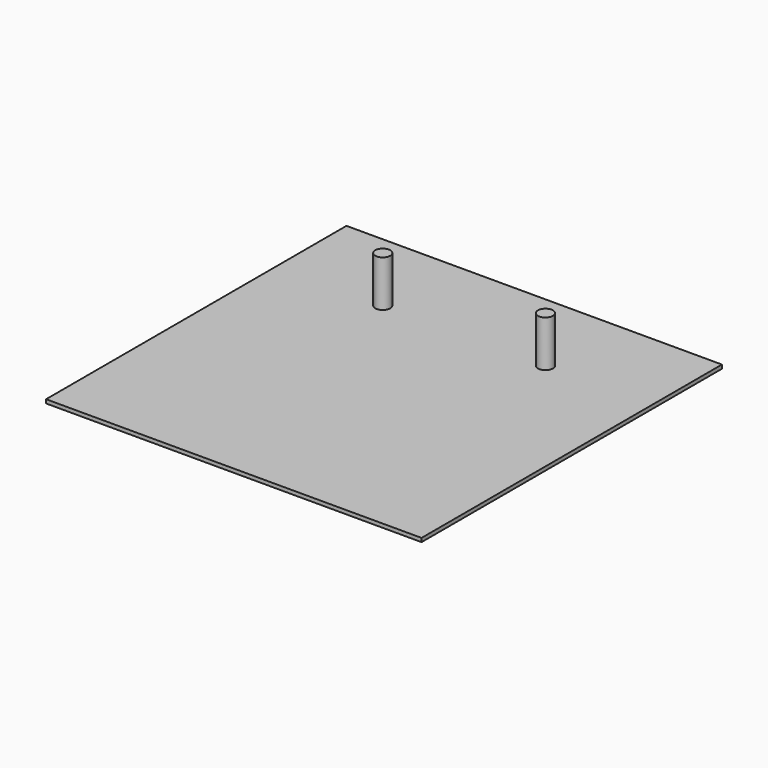
from build123d import *

# Parameters (mm, degrees)
F0_W     = 150
F0_H     = 150
F0_R     = 3
F1_DEPTH = 1.5
F2_DEPTH = 20


with BuildPart() as f1:
    # F0 (on Top) → F1 (new body)
    with BuildSketch(Plane.XY):
        with Locations((-8.750431, 30.283519)):
            Rectangle(F0_W, F0_H)
        with Locations((-41.250431, 70.283519)):
            Circle(F0_R, mode=Mode.SUBTRACT)
        with Locations((23.749569, 70.283519)):
            Circle(F0_R, mode=Mode.SUBTRACT)
    extrude(amount=F1_DEPTH)

    # F0 (on Top) → F2 (join)
    with BuildSketch(Plane.XY):
        with Locations((-41.250431, 70.283519)):
            Circle(F0_R)
        with Locations((23.749569, 70.283519)):
            Circle(F0_R)
    extrude(amount=F2_DEPTH)


solid = f1.part
